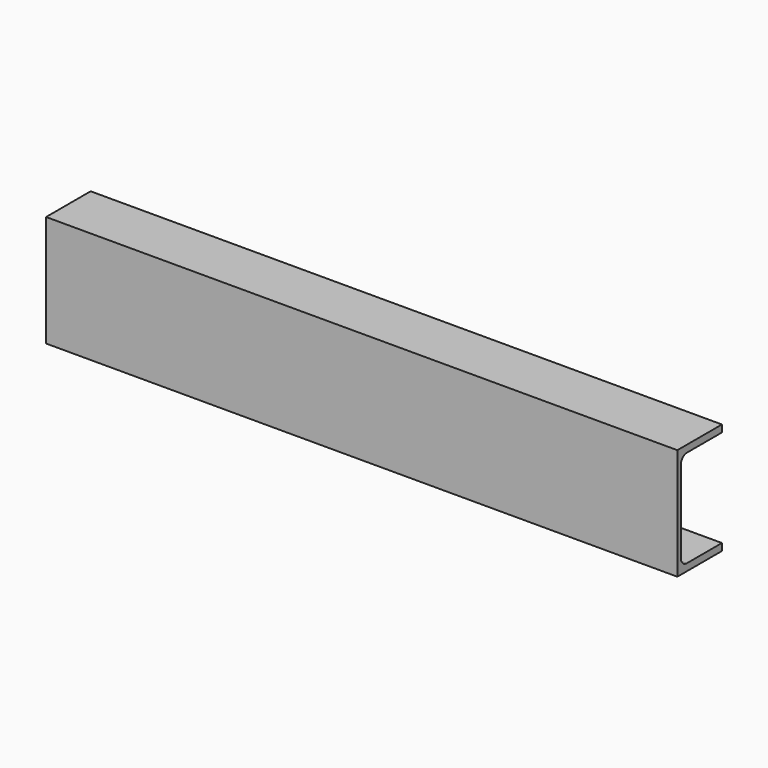
from build123d import *

# Parameters (mm, degrees)
F1_DEPTH = 425


with BuildPart() as f1:
    # F0 (on Right) → F1 (new body, symmetric)
    with BuildSketch(Plane.YZ):
        with BuildLine():
            Line((75, -9.5), (75, 0))
            Line((75, 0), (0, 0))
            Line((0, 0), (0, -150))
            Line((0, -150), (75, -150))
            Line((75, -150), (75, -140.5))
            Line((75, -140.5), (16, -140.5))
            ThreePointArc((16, -140.5), (8.928932, -137.571068), (6, -130.5))
            Line((6, -130.5), (6, -19.5))
            ThreePointArc((6, -19.5), (8.928932, -12.428932), (16, -9.5))
            Line((16, -9.5), (75, -9.5))
        make_face()
    extrude(amount=F1_DEPTH, both=True)


solid = f1.part
